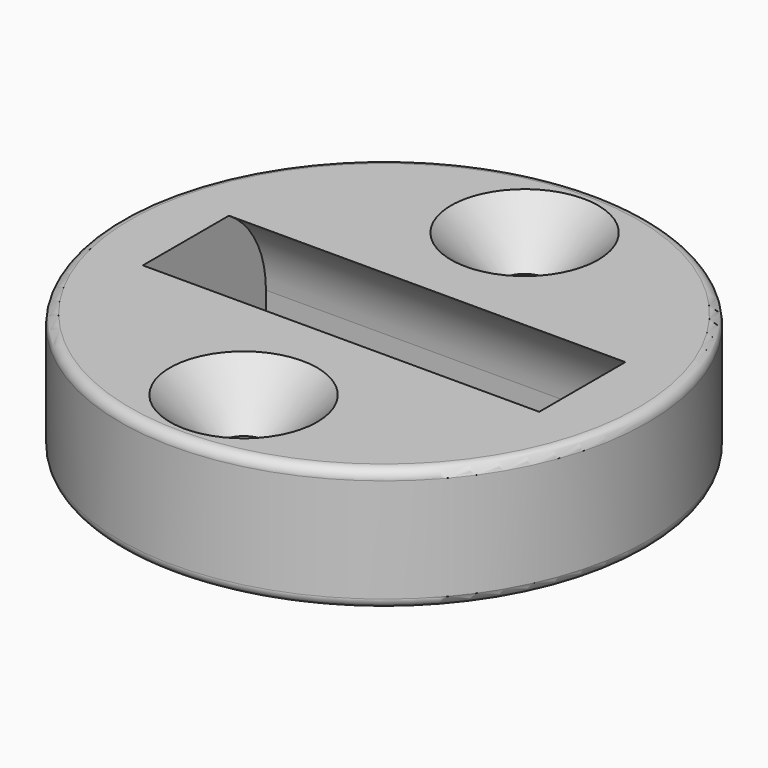
from build123d import *

# Parameters (mm, degrees)
F0_R          = 13.45
F1_DEPTH      = 6.3
F3_DEPTH      = 10.1
F3_DEPTH_BACK = 10.1
F4_R          = 1.25
F5_DEPTH      = 10
F6_R          = 0.5
F7_SIZE       = 2.5


with BuildPart() as f1:
    # F0 (on Top) → F1 (new body)
    with BuildSketch(Plane.XY):
        Circle(F0_R)
    extrude(amount=F1_DEPTH)

    # F2 (on Right) → F3 (cut, two sides)
    with BuildSketch(Plane.YZ) as f3_sk:
        with BuildLine():
            Line((5.1, 0), (5.1, 2))
            ThreePointArc((5.1, 2), (0, 7.1), (-5.1, 2))
            Line((-5.1, 2), (-5.1, 0))
            Line((-5.1, 0), (5.1, 0))
        make_face()
    extrude(amount=F3_DEPTH, mode=Mode.SUBTRACT)
    extrude(f3_sk.sketch, amount=-F3_DEPTH_BACK, mode=Mode.SUBTRACT)

    # F4 (on face) → F5 (cut)
    with BuildSketch(Plane(origin=(0, 0, 0), x_dir=(1, 0, 0), z_dir=(0, 0, -1))):
        with Locations((0, 8.95)):
            Circle(F4_R)
        with Locations((0, -8.95)):
            Circle(F4_R)
    extrude(amount=-F5_DEPTH, mode=Mode.SUBTRACT)

    # F6
    f6_edges = [f1.edges().sort_by_distance(p)[0] for p in [
        (-13.45, 0, 0),
        (-1.25, -8.95, 0),
        (0, -5.1, 0),
        (-10.1, 0, 0),
        (10.1, 0, 0),
        (0, 5.1, 0),
        (-1.25, 8.95, 0),
        (-13.45, 0, 6.3),
    ]]
    fillet(f6_edges, radius=F6_R)

    # F7
    f7_edges = [f1.edges().sort_by_distance(p)[0] for p in [
        (-1.25, -8.95, 6.3),
        (-1.25, 8.95, 6.3),
    ]]
    chamfer(f7_edges, length=F7_SIZE)


solid = f1.part
